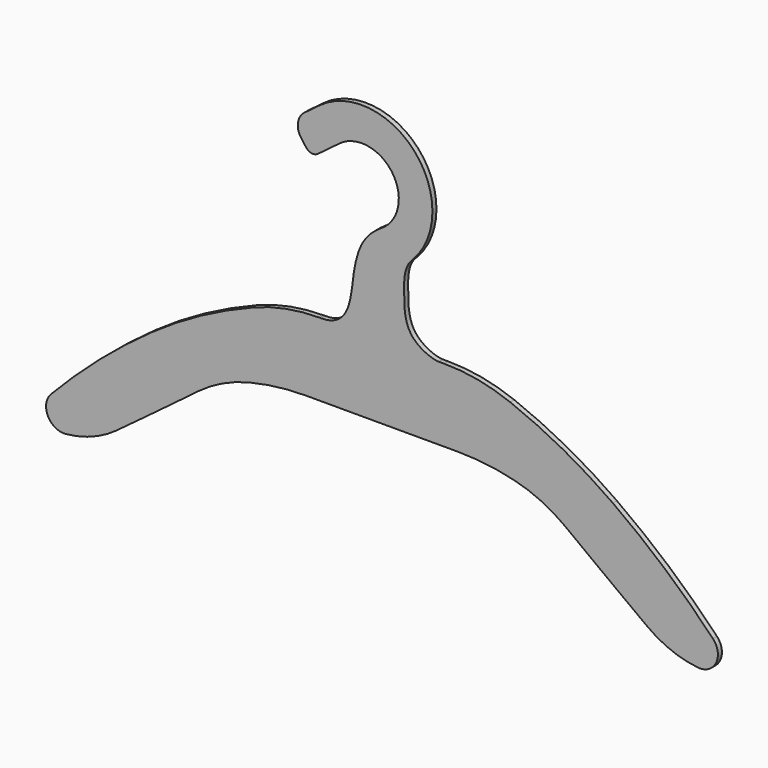
from build123d import *

# Parameters (mm, degrees)
F2_DEPTH = 3
F3_DEPTH = 3


with BuildPart() as f2:
    # F0 (on Front) → F2 (new body)
    with BuildSketch(Plane.XZ):
        with BuildLine():
            Line((0, 110), (-37.1250543006, 110))
            ThreePointArc((-37.1250543006, 110), (-57.0530283082, 108.1392327186), (-76.2920156121, 102.6212647557))
            ThreePointArc((-76.2920156121, 102.6212647557), (-107.8053845023, 88.0195194413), (-137.2898370028, 69.6627646685))
            ThreePointArc((-137.2898370028, 69.6627646685), (-168.2962814604, 45.2722513622), (-196.811914444, 18.0113743991))
            ThreePointArc((-196.811914444, 18.0113743991), (-198.6562382919, 5.922529929), (-187.9573911428, 0))
            ThreePointArc((-187.9573911428, 0), (-172.1749520727, 3.7961120216), (-157.950386405, 11.6164432839))
            ThreePointArc((-157.950386405, 11.6164432839), (-133.5467802063, 29.7456036712), (-109.2505156994, 48.0183698237))
            ThreePointArc((-109.2505156994, 48.0183698237), (-94.8181161846, 56.7914277787), (-78.9122924344, 62.4716982356))
            ThreePointArc((-78.9122924344, 62.4716982356), (-62.1941450585, 65.5321609692), (-45.2291222508, 66.5572877705))
            Line((-45.2291222508, 66.5572877705), (0, 66.5572877705))
            Line((0, 66.5572877705), (45.2291222508, 66.5572877705))
            ThreePointArc((45.2291222508, 66.5572877705), (62.1941450585, 65.5321609692), (78.9122924344, 62.4716982356))
            ThreePointArc((78.9122924344, 62.4716982356), (94.8181161846, 56.7914277787), (109.2505156994, 48.0183698237))
            ThreePointArc((109.2505156994, 48.0183698237), (133.5467802063, 29.7456036712), (157.950386405, 11.6164432839))
            ThreePointArc((157.950386405, 11.6164432839), (172.1749520727, 3.7961120216), (187.9573911428, 0))
            ThreePointArc((187.9573911428, 0), (198.6562382919, 5.922529929), (196.811914444, 18.0113743991))
            ThreePointArc((196.811914444, 18.0113743991), (168.2962814604, 45.2722513622), (137.2898370028, 69.6627646685))
            ThreePointArc((137.2898370028, 69.6627646685), (107.8053845023, 88.0195194413), (76.2920156121, 102.6212647557))
            ThreePointArc((76.2920156121, 102.6212647557), (57.0530283082, 108.1392327186), (37.1250543006, 110))
            Line((37.1250543006, 110), (0, 110))
        make_face()
    extrude(amount=F2_DEPTH)

    # F1 (on Front) → F3 (join)
    with BuildSketch(Plane.XZ):
        with BuildLine():
            ThreePointArc((18.8345826463, 158.9782924416), (19.1860958712, 215.6277740938), (-37.2, 221.0954541697))
            Line((-37.2, 221.0954541697), (-46.0592777571, 214.4509958519))
            ThreePointArc((-46.0592777571, 214.4509958519), (-49.9587726937, 207.8652094143), (-48.0592777571, 200.4509958519))
            Line((-48.0592777571, 200.4509958519), (-45.0592777571, 196.4509958519))
            ThreePointArc((-45.0592777571, 196.4509958519), (-41.7663845383, 194.5012483836), (-38.0592777571, 195.4509958519))
            Line((-38.0592777571, 195.4509958519), (-25.2, 205.0954541697))
            ThreePointArc((-25.2, 205.0954541697), (5.6, 200.6954541697), (1.2, 169.8954541697))
            ThreePointArc((1.2, 169.8954541697), (-5.571825393, 161.7813668662), (-8, 151.4954541697))
            Line((-8, 151.4954541697), (-8, 110))
            Line((-8, 110), (0, 110))
            Line((0, 110), (12, 110))
            Line((12, 110), (12, 151.4954541697))
            ThreePointArc((12, 151.4954541697), (12.316718427, 152.8370949562), (13.2, 153.8954541697))
            ThreePointArc((13.2, 153.8954541697), (15.3055154559, 155.5829358472), (17.2983292582, 157.4021342685))
            add(Edge.make_bspline(
                [(18.8345826463, 158.9782924416), (18.2685657224, 158.4677005018), (17.7583091445, 157.9420185701), (17.2983292582, 157.4021342685)],
                knots=[0, 0, 0, 0, 0.0332714109, 0.0332714109, 0.0332714109, 0.0332714109], degree=3))
        make_face()
        with BuildLine():
            ThreePointArc((17.2983292582, 157.4021342685), (18.0767824439, 158.180148307), (18.8345826463, 158.9782924416))
            add(Edge.make_bspline(
                [(18.8345826463, 158.9782924416), (18.2685657224, 158.4677005018), (17.7583091445, 157.9420185701), (17.2983292582, 157.4021342685)],
                knots=[0, 0, 0, 0, 0.0332714109, 0.0332714109, 0.0332714109, 0.0332714109], degree=3))
        make_face()
        with BuildLine():
            add(Edge.make_bspline(
                [(17.2983292582, 157.4021342685), (13.1793035086, 152.5675808311), (12.9884623094, 139.527426253), (13.3703276725, 116.5931182655), (29.7821242027, 110), (33.8129806474, 110)],
                knots=[0.0332714109, 0.0332714109, 0.0332714109, 0.0332714109, 0.3312100872, 0.6836806519, 1, 1, 1, 1], degree=3))
            ThreePointArc((17.2983292582, 157.4021342685), (15.3055154559, 155.5829358472), (13.2, 153.8954541697))
            ThreePointArc((13.2, 153.8954541697), (12.316718427, 152.8370949562), (12, 151.4954541697))
            Line((12, 151.4954541697), (12, 110))
            Line((12, 110), (33.8129806474, 110))
        make_face()
        with BuildLine():
            ThreePointArc((-8, 151.4954541697), (-5.571825393, 161.7813668662), (1.2, 169.8954541697))
            add(Edge.make_bspline(
                [(-36.0568419915, 110), (-19.4195834096, 110), (-18.0177646467, 138.2709232819), (-12.939977235, 158.3678372994), (-4.7115848759, 166.2572265506), (1.2, 169.8954541697)],
                knots=[0, 0, 0, 0, 0.3938915377, 0.7136667849, 1, 1, 1, 1], degree=3))
            Line((-36.0568419915, 110), (-8, 110))
            Line((-8, 110), (-8, 151.4954541697))
        make_face()
    extrude(amount=F3_DEPTH)


solid = f2.part
